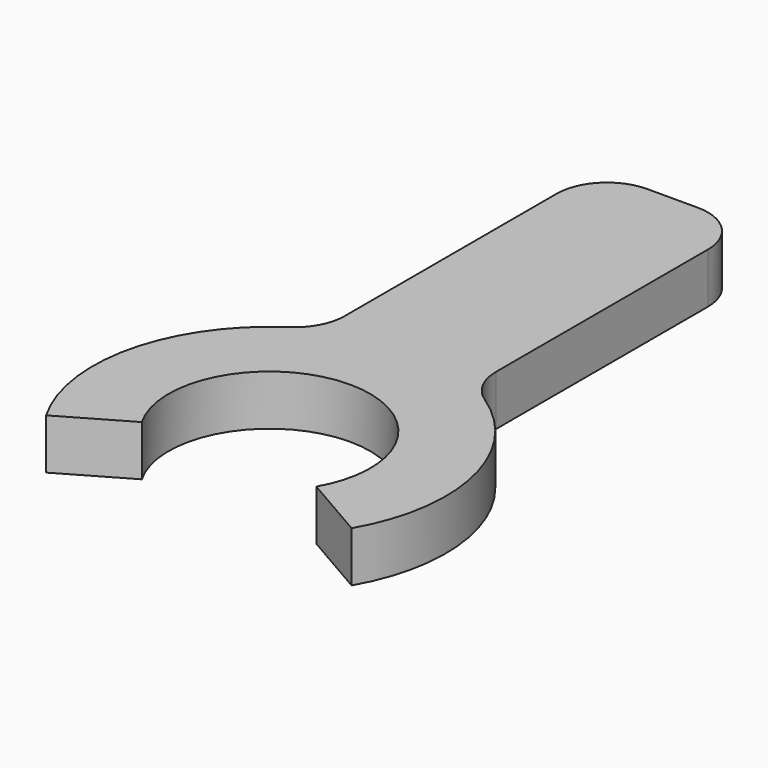
from build123d import *

# Parameters (mm, degrees)
SKETCH_R     = 17.5
SKETCH_R_2   = 10
PAD_DEPTH    = 5
POCKET_DEPTH = 5.001
PAD002_DEPTH = 5
FILLET_R     = 5


with BuildPart() as part:
    # Sketch → Pad (new body)
    with BuildSketch(Plane.XY):
        Circle(SKETCH_R)
        Circle(SKETCH_R_2, mode=Mode.SUBTRACT)
    extrude(amount=PAD_DEPTH)

    # Sketch001 (on Face4 of Pad) → Pocket (cut, through all)
    with BuildSketch(Plane.XY.offset(5)):
        with BuildLine():
            Line((0, 0), (-15.155445, -8.75))
            ThreePointArc((-15.155445, -8.75), (0, -17.5), (15.155445, -8.75))
            Line((0, 0), (15.155445, -8.75))
        make_face()
    extrude(amount=-POCKET_DEPTH, mode=Mode.SUBTRACT)

    # Sketch004 (on Face2 of Pocket) → Pad002 (join)
    with BuildSketch(Plane(origin=(0, 0, 0), x_dir=(1, 0, 0), z_dir=(0, 0, -1))):
        with BuildLine():
            Line((-7.5, -15.811388), (-7.5, -50))
            Line((-7.5, -50), (7.5, -50))
            Line((7.5, -50), (7.5, -15.811388))
            ThreePointArc((-7.5, -15.811388), (0, -17.5), (7.5, -15.811388))
        make_face()
    extrude(amount=-PAD002_DEPTH)

    # Fillet
    fillet_edges = [part.edges().sort_by_distance(p)[0] for p in [
        (-7.5, 15.811388, 2.5),
        (7.5, 15.811388, 2.5),
        (-7.5, 50, 2.5),
        (7.5, 50, 2.5),
    ]]
    fillet(fillet_edges, radius=FILLET_R)


solid = part.part
